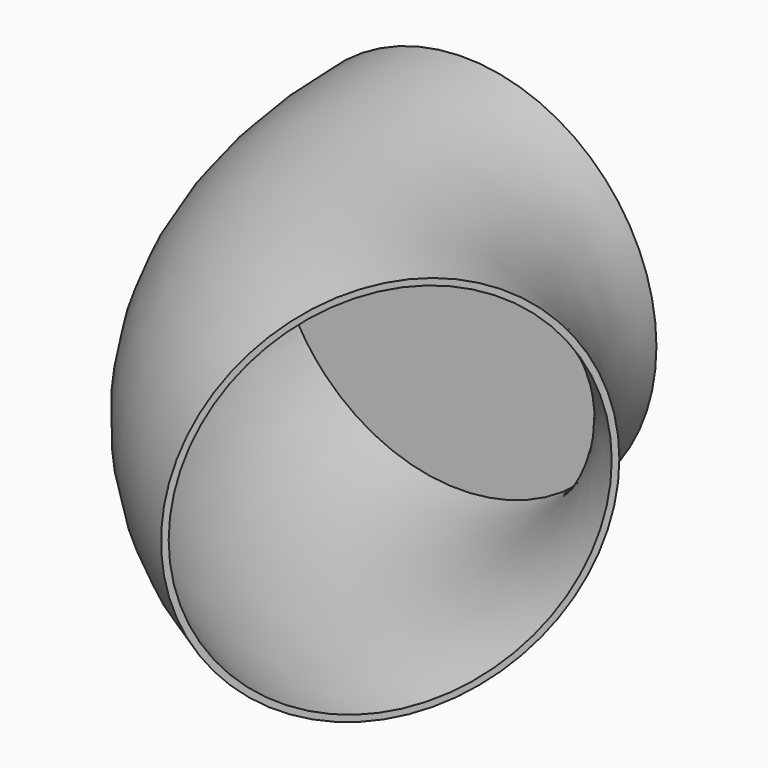
from build123d import *

# Parameters (mm, degrees)
F0_R = 19.05
F3_T = -0.635


with BuildPart() as f2:
    # F2: sweep along a path in F1
    with BuildLine(Plane.XY) as f2_path:
        ThreePointArc((0, 0), (5.1044321158, -19.05), (19.05, -32.9955678842))
    # F0 (on Front) → F2 (sweep)
    with BuildSketch(Plane.XZ):
        Circle(F0_R)
    sweep(path=f2_path.line)

    # F3
    f3_openings = [f2.faces().sort_by_distance(p)[0] for p in [
        (19.05, -32.995568, 0),
    ]]
    offset(amount=F3_T, openings=f3_openings)


solid = f2.part
